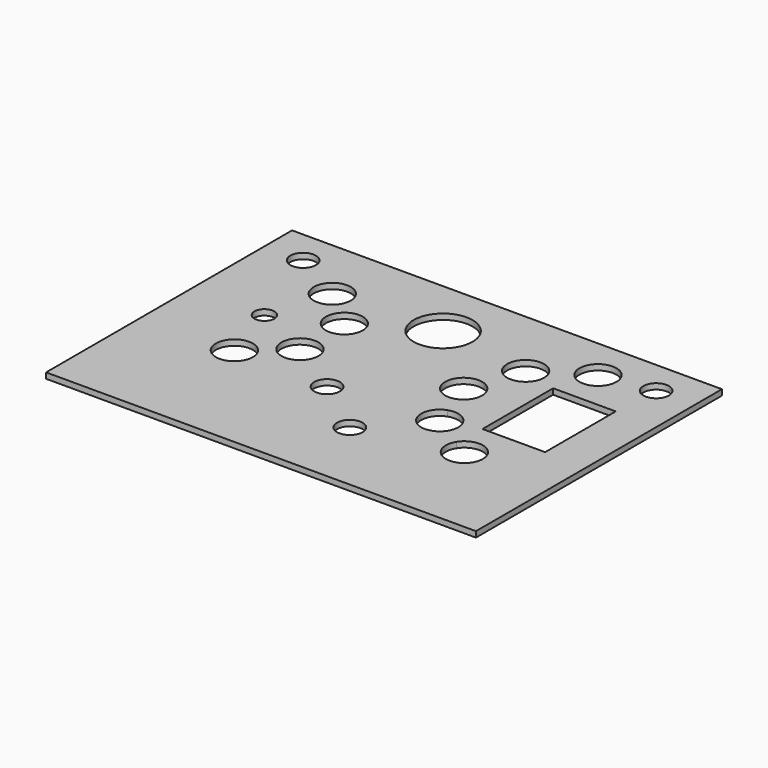
from build123d import *

# Parameters (mm, degrees)
F0_W     = 151
F0_H     = 108
F0_R     = 6.5
F0_R_2   = 4.5
F0_R_3   = 3.5
F0_R_4   = 10.35
F0_W_2   = 22
F0_H_2   = 31
F1_DEPTH = 2


with BuildPart() as f1:
    # F0 (on Top) → F1 (new body)
    with BuildSketch(Plane.XY):
        with BuildLine():
            ThreePointArc((50.203704, -19.331837), (45.47278, -13.077209), (38.166667, -15.927249))
            ThreePointArc((38.166667, -15.927249), (41.934628, -25.586465), (50.203704, -19.331837))
        make_face()
        with BuildLine():
            ThreePointArc((50.203704, 39.331837), (41.934628, 45.586465), (38.166667, 35.927249))
            ThreePointArc((38.166667, 35.927249), (45.47278, 33.077209), (50.203704, 39.331837))
        make_face()
        Rectangle(F0_W, F0_H)
        with Locations((-43.3599, -11.497885)):
            Circle(F0_R, mode=Mode.SUBTRACT)
        with Locations((-10, -12.5)):
            Circle(F0_R_2, mode=Mode.SUBTRACT)
        with Locations((10, -27.5)):
            Circle(F0_R_2, mode=Mode.SUBTRACT)
        with BuildLine():
            ThreePointArc((32.203704, -12.260769), (21.611111, -12.941687), (24.5, -2.727922))
            ThreePointArc((24.5, -2.727922), (30.419443, -3.548953), (33.166667, -8.856181))
            ThreePointArc((33.166667, -8.856181), (32.921295, -10.625257), (32.203704, -12.260769))
        make_face(mode=Mode.SUBTRACT)
        with BuildLine():
            ThreePointArc((50.203704, -19.331837), (41.934628, -25.586465), (38.166667, -15.927249))
            ThreePointArc((38.166667, -15.927249), (45.47278, -13.077209), (50.203704, -19.331837))
        make_face(mode=Mode.SUBTRACT)
        with Locations((-50, 10)):
            Circle(F0_R_3, mode=Mode.SUBTRACT)
        with Locations((-29.722222, 0.25004)):
            Circle(F0_R, mode=Mode.SUBTRACT)
        with Locations((-29.722222, 19.74996)):
            Circle(F0_R, mode=Mode.SUBTRACT)
        with Locations((-43.3599, 31.497885)):
            Circle(F0_R, mode=Mode.SUBTRACT)
        with Locations((-62, 42)):
            Circle(F0_R_2, mode=Mode.SUBTRACT)
        with Locations((-5.846048, 33.255358)):
            Circle(F0_R_4, mode=Mode.SUBTRACT)
        with BuildLine():
            ThreePointArc((22.166667, 16.128259), (25.307228, 13.752777), (26.5, 10))
            ThreePointArc((26.5, 10), (25.307228, 6.247223), (22.166667, 3.871741))
            ThreePointArc((22.166667, 3.871741), (13.5, 10), (22.166667, 16.128259))
        make_face(mode=Mode.SUBTRACT)
        with Locations((50, 10)):
            Rectangle(F0_W_2, F0_H_2, mode=Mode.SUBTRACT)
        with BuildLine():
            ThreePointArc((33.166667, 28.856181), (30.419443, 23.548953), (24.5, 22.727922))
            ThreePointArc((24.5, 22.727922), (21.611111, 32.941687), (32.203704, 32.260769))
            ThreePointArc((32.203704, 32.260769), (32.921295, 30.625257), (33.166667, 28.856181))
        make_face(mode=Mode.SUBTRACT)
        with BuildLine():
            ThreePointArc((50.203704, 39.331837), (45.47278, 33.077209), (38.166667, 35.927249))
            ThreePointArc((38.166667, 35.927249), (41.934628, 45.586465), (50.203704, 39.331837))
        make_face(mode=Mode.SUBTRACT)
        with Locations((62, 42)):
            Circle(F0_R_2, mode=Mode.SUBTRACT)
    extrude(amount=F1_DEPTH)


solid = f1.part
